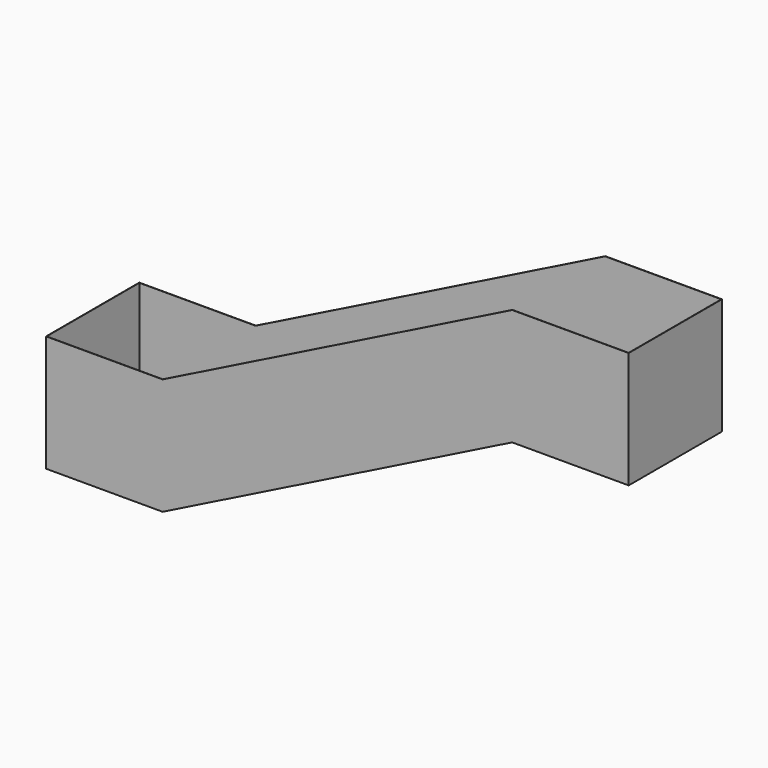
from build123d import *

# Parameters (mm, degrees)
F1_DEPTH = 400
F2_T     = -1


with BuildPart() as f1:
    # F0 (on Front) → F1 (new body)
    with BuildSketch(Plane.XZ):
        Polygon((0, 400), (0, 0), (400, 0), (1600, 600), (2000, 600), (2000, 1000), (1600, 1000), (400, 400), align=None)
    extrude(amount=F1_DEPTH)

    # F2
    f2_openings = [f1.faces().sort_by_distance(p)[0] for p in [
        (200, -200, 400),
        (1000, -200, 700),
        (1800, -200, 1000),
    ]]
    offset(amount=F2_T, openings=f2_openings, kind=Kind.INTERSECTION)


solid = f1.part
